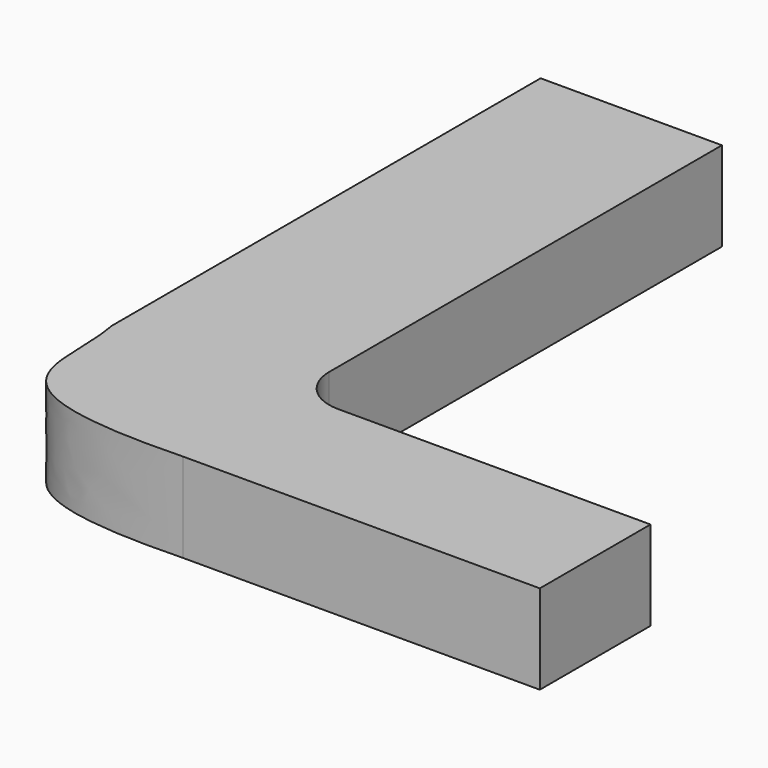
from build123d import *

# Parameters (mm, degrees)
F1_DEPTH = 12.7


with BuildPart() as f1:
    # F0 (on Top) → F1 (new body)
    with BuildSketch(Plane.XY):
        with BuildLine():
            Line((0, -19.681676), (0, 0))
            Line((0, 0), (-25.798953, 0))
            add(Edge.make_bspline(
                [(-25.798953, 0), (-23.671205, -10.904712), (-30.852355, -20.745552), (0, -19.681676)],
                knots=[0, 0, 0, 0, 32.449258, 32.449258, 32.449258, 32.449258], degree=3))
        make_face()
        with BuildLine():
            Line((-25.798953, 0), (0, 0))
            Line((0, 0), (0, -19.681676))
            Line((0, -19.681676), (50.8, -19.681676))
            Line((50.8, -19.681676), (50.8, 0))
            Line((50.8, 0), (6.35, 0))
            ThreePointArc((6.35, 0), (1.859872, 1.859872), (0, 6.35))
            Line((0, 6.35), (0, 76.2))
            Line((0, 76.2), (-25.798953, 76.2))
            Line((-25.798953, 76.2), (-25.798953, 0))
        make_face()
    extrude(amount=F1_DEPTH)


solid = f1.part
